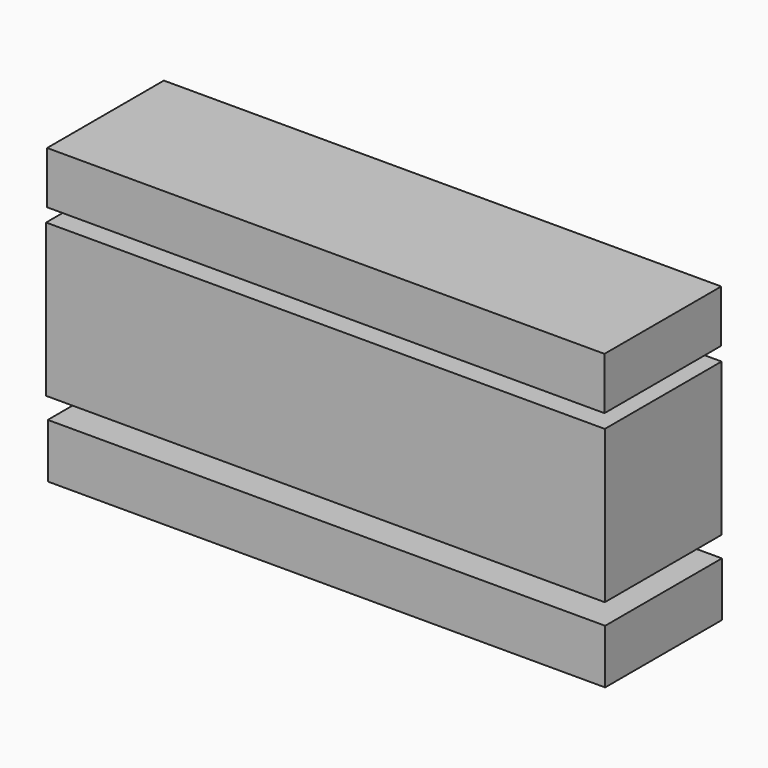
from build123d import *

# Parameters (mm, degrees)
F0_W     = 194.4637596607
F0_H     = 15.188745223
F0_H_2   = 11.0028702766
F0_H_3   = 26.909193024
F1_DEPTH = 50.8
F2_W     = 193.9853802323
F2_H     = 18.178652972
F3_DEPTH = 50.8
F2_W_2   = 193.9853876829
F2_H_2   = 18.8962351531


with BuildPart() as f1:
    # F0 (on Front) → F1 (new body)
    with BuildSketch(Plane.XZ):
        with Locations((2.511523664, -7.5943726115)):
            Rectangle(F0_W, F0_H)
        with Locations((2.511523664, 32.4106281623)):
            Rectangle(F0_W, F0_H_2)
        with Locations((2.511523664, 13.454596512)):
            Rectangle(F0_W, F0_H_3)
        with Locations((2.511523664, -7.5943726115)):
            Rectangle(F0_W, F0_H)
    extrude(amount=F1_DEPTH)


with BuildPart() as f3:
    # F2 (on Front) → F3 (new body)
    with BuildSketch(Plane.XZ):
        with Locations((2.6311166584, 51.7852474004)):
            Rectangle(F2_W, F2_H)
    extrude(amount=F3_DEPTH)


with BuildPart() as f3b:
    # F2 (on Front) → F3, piece 2 (new body)
    with BuildSketch(Plane.XZ):
        with Locations((2.8703138232, -31.8126464263)):
            Rectangle(F2_W_2, F2_H_2)
    extrude(amount=F3_DEPTH)


solid = Compound([f1.part, f3.part, f3b.part])
